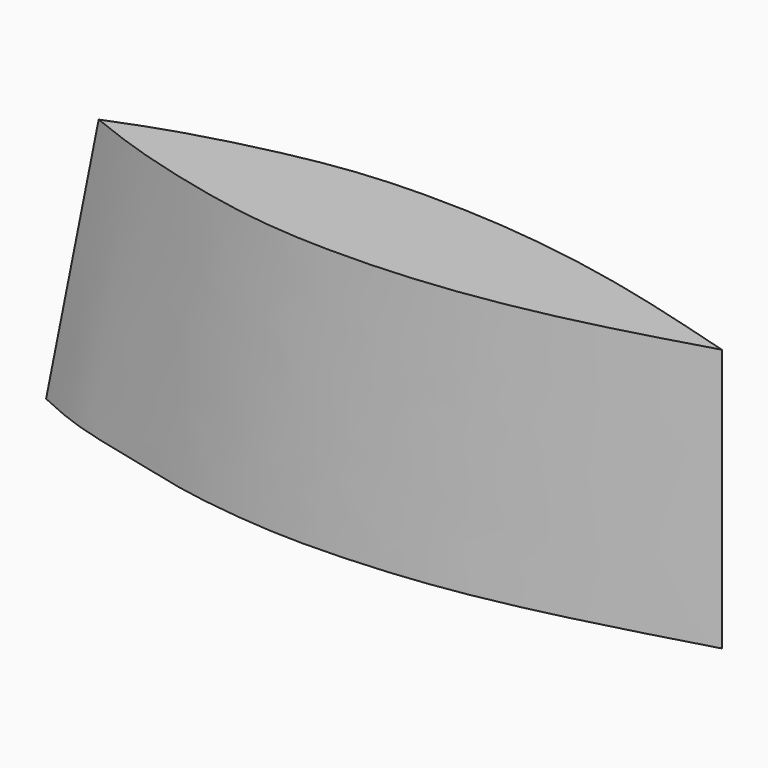
from build123d import *


with BuildPart() as f3:
    # F2 (on offset) → F3 section 0
    with BuildSketch(Plane.XY.offset(100)):
        with BuildLine():
            Line((0, 0), (-237, 0))
            add(Edge.make_bspline(
                [(-237, 0), (-229.9861621265, -2.7927597212), (-214.0157068792, -9.1518522679), (-174.6182320993, -19.2245011613), (-142.1181733774, -23.3571111993), (-95.4605869173, -22.3576600721), (-47.195165468, -13.8568066224), (-15.7039451761, -4.6107801373), (0, 0)],
                knots=[0, 0, 0, 0, 0.1306287725, 0.2974407168, 0.4504407971, 0.6289034989, 0.8149427347, 1, 1, 1, 1], degree=3))
        make_face()
    # F0 (on Top) → F3 section 1
    with BuildSketch(Plane.XY):
        with BuildLine():
            Line((0, 0), (-257, 0))
            add(Edge.make_bspline(
                [(-257, 0), (-251.2445532447, -2.6668696546), (-238.3824869907, -8.6266944338), (-207.1657004745, -15.4930558343), (-187.804207807, -20.936297627), (-158.0211159086, -24.6997447631), (-132.7856839479, -25.4077309542), (-92.1990133529, -22.8700672627), (-47.4784166277, -13.486200052), (-15.9929454963, -4.5427812826), (0, 0)],
                knots=[0, 0, 0, 0, 0.0999654451, 0.2233991961, 0.3248399138, 0.4429804375, 0.5550904112, 0.6942131357, 0.8446765293, 1, 1, 1, 1], degree=3))
        make_face()
    loft()

    # F4: F3 across plane


with BuildPart() as f3_1:
    add(f3.part)
    add(f3.part.mirror(Plane.XZ))


solid = f3_1.part
